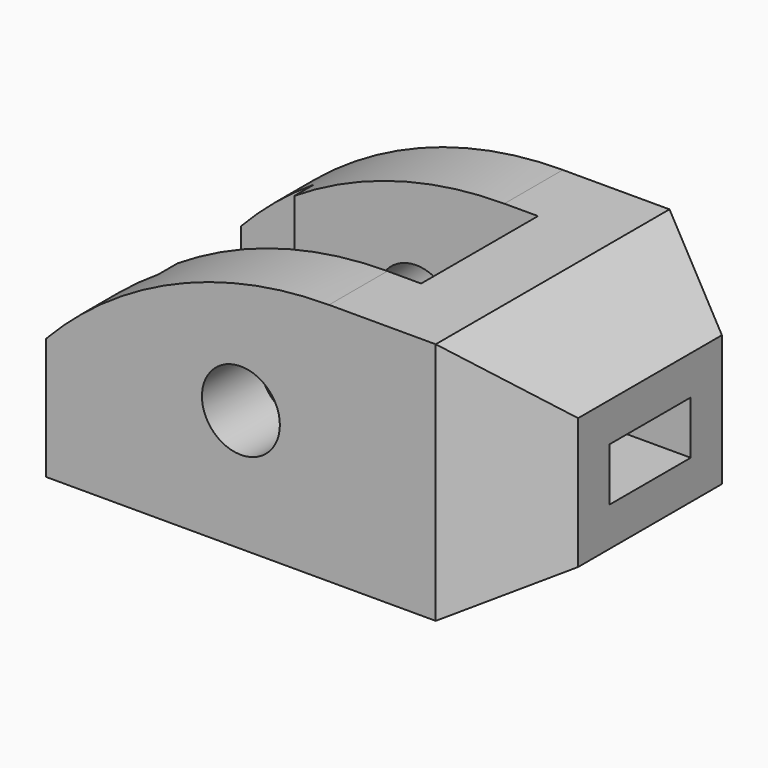
from build123d import *

# Parameters (mm, degrees)
F0_R     = 8
F1_DEPTH = 60
F3_DEPTH = 50.001
F5_W     = 20.90599
F5_H     = 10.90599
F6_DEPTH = 100.001


with BuildPart() as f1:
    # F0 (on Front) → F1 (new body)
    with BuildSketch(Plane.XZ):
        with BuildLine():
            Line((-80, 25), (-80, 0))
            Line((-80, 0), (0, 0))
            Line((0, 0), (0, 50))
            Line((0, 50), (-21.90525, 50))
            ThreePointArc((-21.90525, 50), (-53.528026, 43.484692), (-80, 25))
        make_face()
        with Locations((-40, 25)):
            Circle(F0_R, mode=Mode.SUBTRACT)
        Polygon((0, 50), (0, 0), (20, 11.547005), (20, 38.452995), align=None)
    extrude(amount=F1_DEPTH)

    # F2 (on Top) → F3 (cut, through all)
    with BuildSketch(Plane.XY):
        Polygon((20, -48.452995), (0, -60), (20, -60), align=None)
        Polygon((20, 0), (0, 0), (20, -11.547005), align=None)
        Polygon((-65, -10), (-80, -10), (-80, -50), (-65, -50), (-65, -45), (-15, -45), (-15, -15), (-65, -15), align=None)
    extrude(amount=F3_DEPTH, mode=Mode.SUBTRACT)

    # F5 (on offset) → F6 (cut, through all)
    with BuildSketch(Plane.YZ.offset(20)):
        with Locations((-30, 25)):
            Rectangle(F5_W, F5_H)
    extrude(amount=-F6_DEPTH, mode=Mode.SUBTRACT)


solid = f1.part
